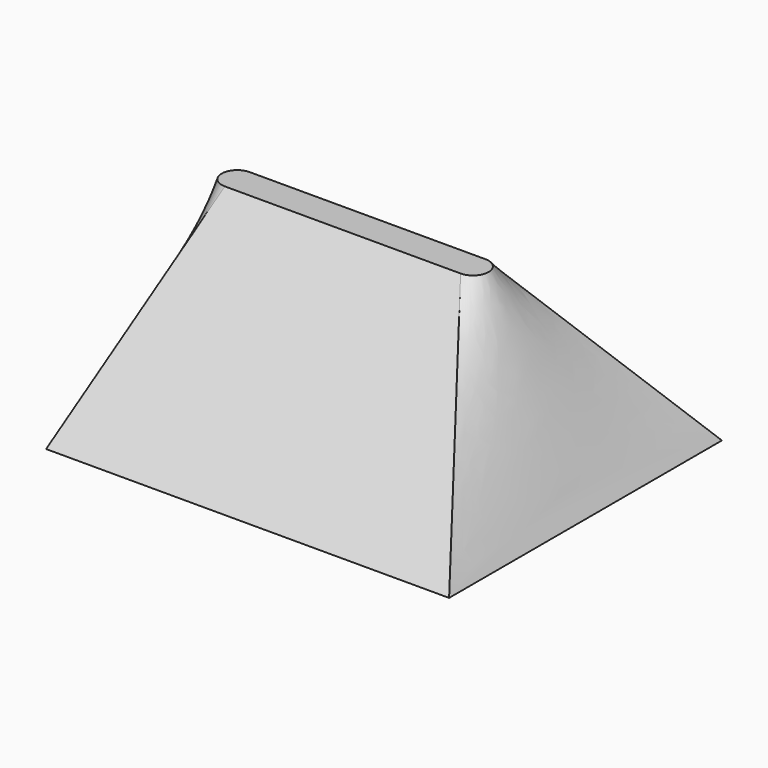
from build123d import *

# Parameters (mm, degrees)
F1_W = 1320.8
F1_H = 1117.6


with BuildPart() as f3:
    # F1 (on Top) → F3 section 0
    with BuildSketch(Plane.XY):
        Rectangle(F1_W, F1_H)
    # F2 (on offset) → F3 section 1
    with BuildSketch(Plane.XY.offset(609.6)):
        with BuildLine():
            Line((291.772554, 50.8), (-480.944127, 50.8))
            ThreePointArc((-480.944127, 50.8), (-531.744127, 0), (-480.944127, -50.8))
            Line((-480.944127, -50.8), (291.772554, -50.8))
            ThreePointArc((291.772554, -50.8), (342.572554, 0), (291.772554, 50.8))
        make_face()
    loft()


solid = f3.part
